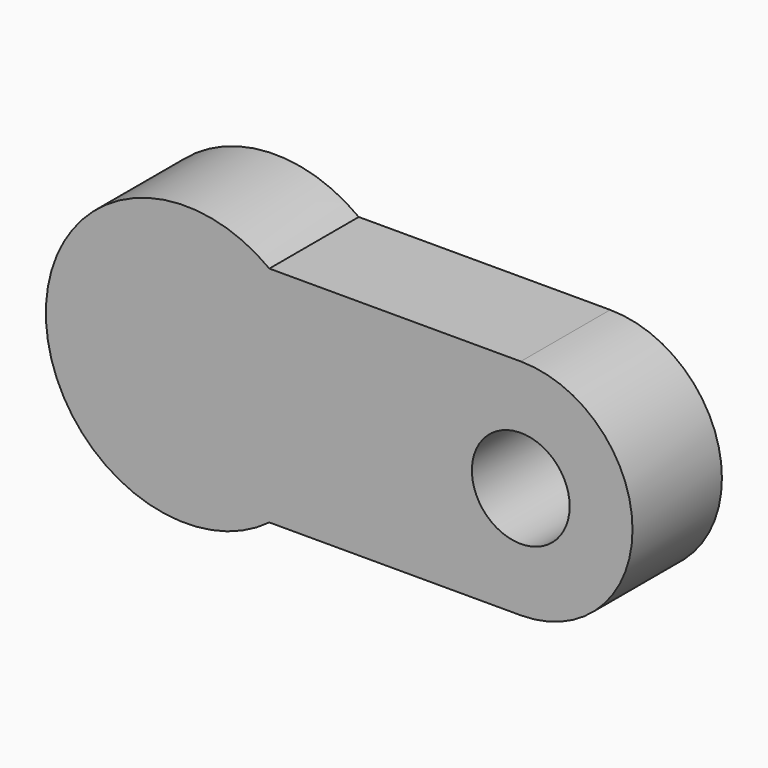
from build123d import *

# Parameters (mm, degrees)
F0_R     = 11.1125
F1_DEPTH = 25.4


with BuildPart() as f1:
    # F0 (on Front) → F1 (new body)
    with BuildSketch(Plane.XZ):
        with BuildLine():
            ThreePointArc((-25.493373, -25.4), (-16.145309, -14.199032), (-12.793373, 0))
            ThreePointArc((-12.793373, 0), (-16.145309, 14.199032), (-25.493373, 25.4))
            ThreePointArc((-25.493373, 25.4), (-76.293373, 0), (-25.493373, -25.4))
        make_face()
        with BuildLine():
            ThreePointArc((-25.493373, 25.4), (-16.145309, 14.199032), (-12.793373, 0))
            ThreePointArc((-12.793373, 0), (-16.145309, -14.199032), (-25.493373, -25.4))
            Line((-25.493373, -25.4), (31.656627, -25.4))
            ThreePointArc((31.656627, -25.4), (57.056627, 0), (31.656627, 25.4))
            Line((31.656627, 25.4), (-25.493373, 25.4))
        make_face()
        with Locations((31.656627, 0)):
            Circle(F0_R, mode=Mode.SUBTRACT)
    extrude(amount=F1_DEPTH)


solid = f1.part
